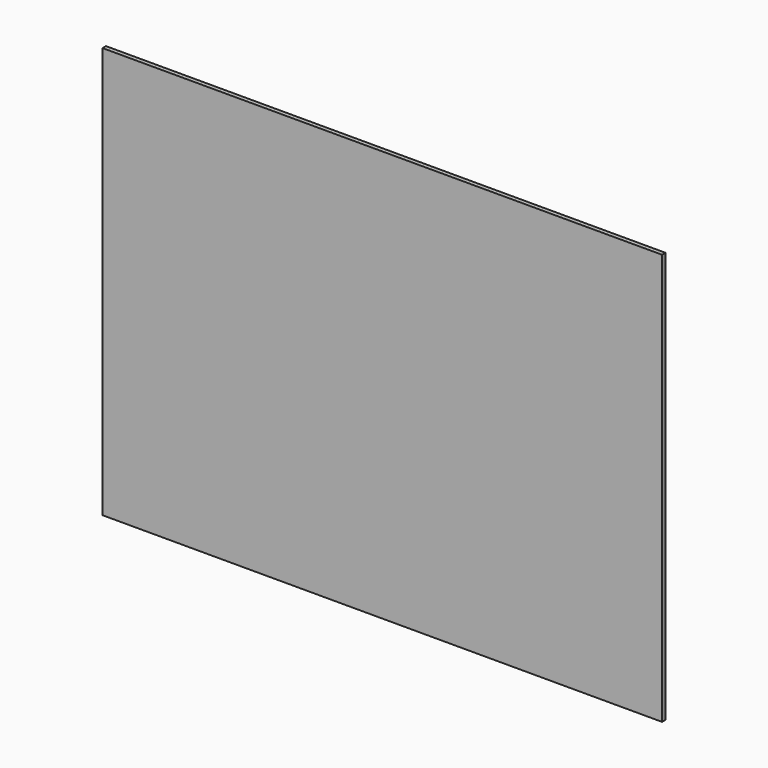
from build123d import *

# Parameters (mm, degrees)
F3_W     = 3317.875
F3_H     = 2438.4
F4_DEPTH = 25.4


with BuildPart() as f4:
    # F3 (on plane+point) → F4 (new body)
    with BuildSketch(Plane.XZ.offset(-1754.1875)):
        with Locations((1658.9375, 1219.2)):
            Rectangle(F3_W, F3_H)
    extrude(amount=-F4_DEPTH)


solid = f4.part
